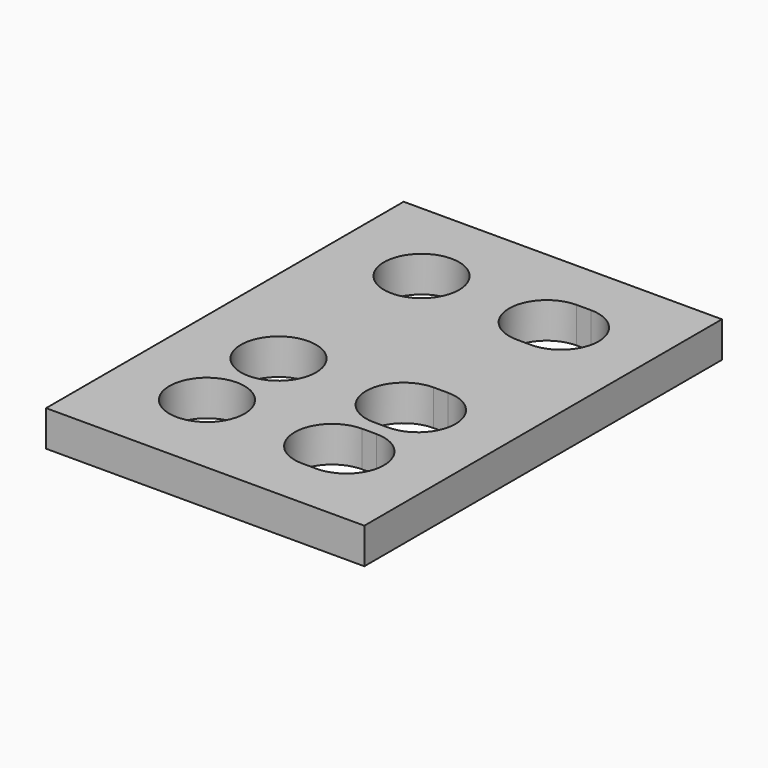
from build123d import *

# Parameters (mm, degrees)
SKETCH_W      = 17.8
SKETCH_H      = 25
SKETCH_R      = 2.1
EXTRUDE_DEPTH = 2


with BuildPart() as part:
    # Sketch → Extrude (new body)
    with BuildSketch(Plane.XY):
        with Locations((3.9, -7.5)):
            Rectangle(SKETCH_W, SKETCH_H)
        Circle(SKETCH_R, mode=Mode.SUBTRACT)
        with Locations((0, -15)):
            Circle(SKETCH_R, mode=Mode.SUBTRACT)
        with Locations((0, -10)):
            Circle(SKETCH_R, mode=Mode.SUBTRACT)
        with BuildLine():
            ThreePointArc((7, 2.1), (4.9, 0), (7, -2.1))
            Line((7, -2.1), (7.8, -2.1))
            ThreePointArc((7.8, -2.1), (9.9, 0), (7.8, 2.1))
            Line((7, 2.1), (7.8, 2.1))
        make_face(mode=Mode.SUBTRACT)
        with BuildLine():
            ThreePointArc((7, -12.9), (4.9, -15), (7, -17.1))
            Line((7, -17.1), (7.8, -17.1))
            ThreePointArc((7.8, -17.1), (9.9, -15), (7.8, -12.9))
            Line((7, -12.9), (7.8, -12.9))
        make_face(mode=Mode.SUBTRACT)
        with BuildLine():
            ThreePointArc((7, -7.9), (4.9, -10), (7, -12.1))
            Line((7, -12.1), (7.8, -12.1))
            ThreePointArc((7.8, -12.1), (9.9, -10), (7.8, -7.9))
            Line((7, -7.9), (7.8, -7.9))
        make_face(mode=Mode.SUBTRACT)
    extrude(amount=EXTRUDE_DEPTH)


solid = part.part
